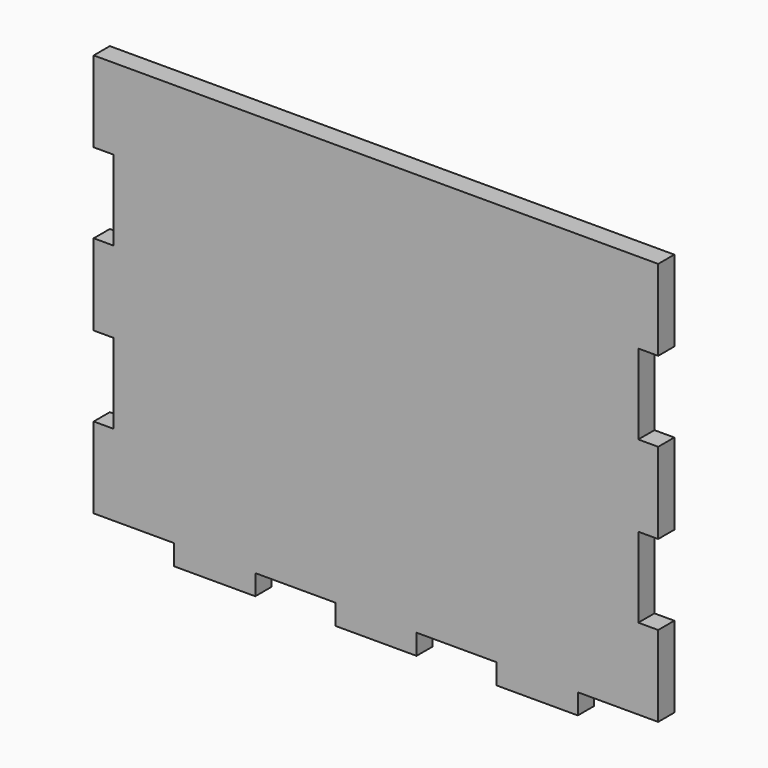
from build123d import *

# Parameters (mm, degrees)
F0_W     = 25.5778
F0_H     = 6.4389
F1_DEPTH = 6.35


with BuildPart() as f1:
    # F0 (on Front) → F1 (new body)
    with BuildSketch(Plane.XZ):
        Polygon((0, 25.4889), (0, 0), (25.3111, 0), (50.8889, 0), (76.1111, 0), (101.6889, 0), (126.9111, 0), (152.4889, 0), (177.8, 0), (177.8, 25.4889), (171.5389, 25.4889), (171.5389, 50.7111), (177.8, 50.7111), (177.8, 76.2889), (171.5389, 76.2889), (171.5389, 101.5111), (177.8, 101.5111), (177.8, 127), (0, 127), (0, 101.5111), (6.2611, 101.5111), (6.2611, 76.2889), (0, 76.2889), (0, 50.7111), (6.2611, 50.7111), (6.2611, 25.4889), align=None)
        with Locations((38.1, -3.21945)):
            Rectangle(F0_W, F0_H)
        with Locations((88.9, -3.21945)):
            Rectangle(F0_W, F0_H)
        with Locations((139.7, -3.21945)):
            Rectangle(F0_W, F0_H)
    extrude(amount=F1_DEPTH)


solid = f1.part
